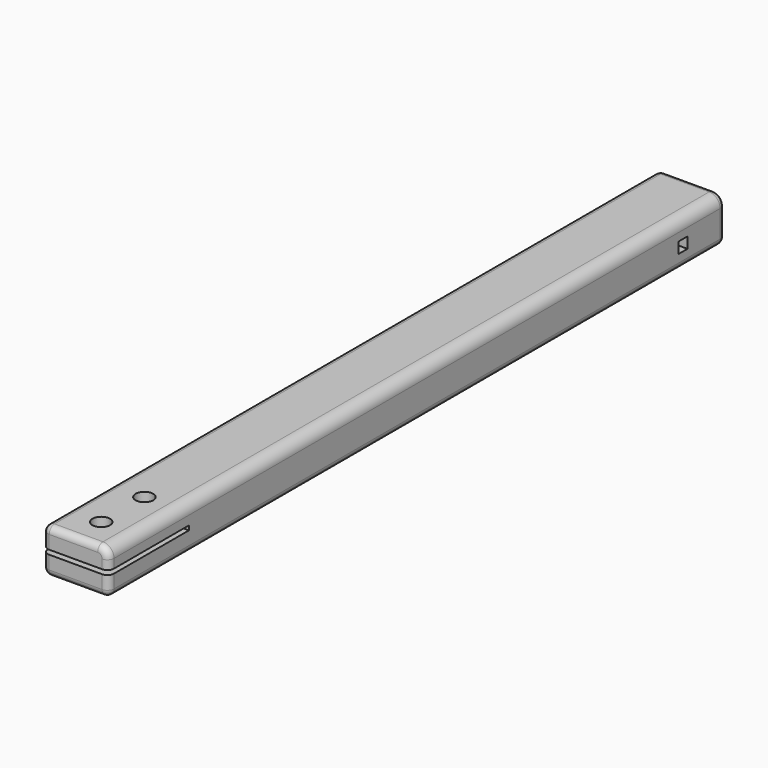
from build123d import *

# Parameters (mm, degrees)
F0_W      = 30
F0_H      = 20.2
F1_DEPTH  = 350
F2_R      = 5
F3_R      = 3
F4_W      = 45.5
F4_H      = 2
F5_DEPTH  = 30.001
F6_W      = 5
F6_H      = 5
F7_DEPTH  = 30.001
F8_R      = 4
F9_DEPTH  = 20.201
F10_DEPTH = 30.001


with BuildPart() as f1:
    # F0 (on Front) → F1 (new body)
    with BuildSketch(Plane.XZ):
        Rectangle(F0_W, F0_H)
    extrude(amount=-F1_DEPTH)

    # F2
    f2_edges = [f1.edges().sort_by_distance(p)[0] for p in [
        (15, 175, 10.1),
    ]]
    fillet(f2_edges, radius=F2_R)

    # F3
    f3_edges = [f1.edges().sort_by_distance(p)[0] for p in [
        (-15, 175, 10.1),
        (-2.5, 0, 10.1),
        (-15, 175, -10.1),
        (15, 175, -10.1),
        (0, 0, -10.1),
        (0, 350, -10.1),
        (-15, 0, 0),
        (-2.5, 350, 10.1),
        (-15, 350, 0),
    ]]
    fillet(f3_edges, radius=F3_R)

    # F4 (on face) → F5 (cut, through all)
    with BuildSketch(Plane.YZ.offset(15)):
        with Locations((22.75, 0)):
            Rectangle(F4_W, F4_H)
    extrude(amount=-F5_DEPTH, mode=Mode.SUBTRACT)

    # F6 (on face) → F7 (cut, through all)
    with BuildSketch(Plane.YZ.offset(15)):
        with Locations((326, -1)):
            Rectangle(F6_W, F6_H)
    extrude(amount=-F7_DEPTH, mode=Mode.SUBTRACT)

    # F8 (on face) → F9 (cut, through all)
    with BuildSketch(Plane.XY.offset(10.1)):
        with Locations((0, 14.5)):
            Circle(F8_R)
        with Locations((0, 39)):
            Circle(F8_R)
    extrude(amount=-F9_DEPTH, mode=Mode.SUBTRACT)

    # F6 (on face) → F10 (cut, through all)
    with BuildSketch(Plane.YZ.offset(15)):
        with Locations((326, -1)):
            Rectangle(F6_W, F6_H)
    extrude(amount=-F10_DEPTH, mode=Mode.SUBTRACT)


solid = f1.part
